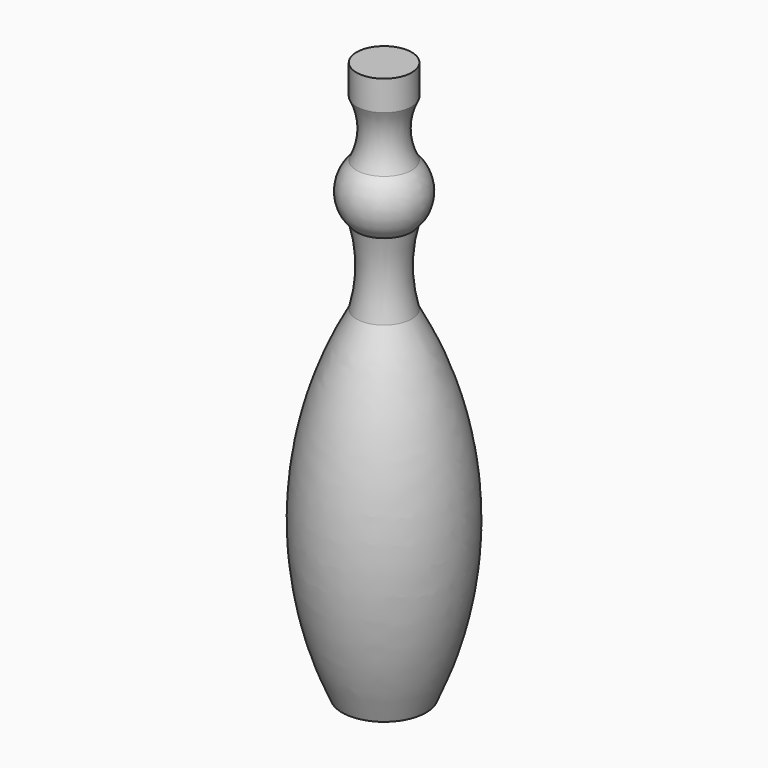
from build123d import *


with BuildPart() as f1:
    # F0 (on Front) → F1 (revolve)
    with BuildSketch(Plane.XZ):
        with BuildLine():
            Line((3.684014, 0), (0, 0))
            Line((0, 0), (0, -75))
            Line((0, -75), (5.601559, -74.595623))
            ThreePointArc((5.601559, -74.595623), (10.106908, -51.551597), (3.684014, -28.966829))
            ThreePointArc((3.684014, -28.966829), (3, -23.859126), (3.684014, -18.751424))
            ThreePointArc((3.684014, -18.751424), (5.233962, -15.119281), (3.684014, -11.487138))
            ThreePointArc((3.684014, -11.487138), (2.77519, -7.741491), (3.684014, -3.995843))
            Line((3.684014, -3.995843), (3.684014, 0))
        make_face()
    revolve(axis=Axis((0, 0, -37.5), (0, 0, -1)))


solid = f1.part
